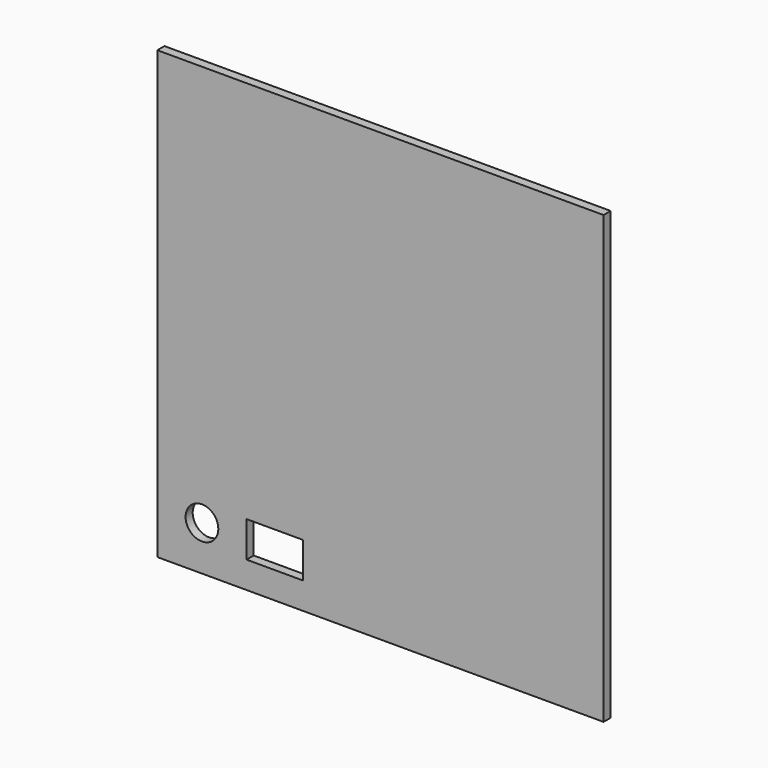
from build123d import *

# Parameters (mm, degrees)
F0_W     = 150
F0_H     = 150
F0_R     = 5.5
F0_W_2   = 19
F0_H_2   = 12
F1_DEPTH = 3


with BuildPart() as f1:
    # F0 (on Front) → F1 (new body)
    with BuildSketch(Plane.XZ):
        Rectangle(F0_W, F0_H)
        with Locations((-60, -60)):
            Circle(F0_R, mode=Mode.SUBTRACT)
        with Locations((-35.5, -60)):
            Rectangle(F0_W_2, F0_H_2, mode=Mode.SUBTRACT)
    extrude(amount=F1_DEPTH)


solid = f1.part
